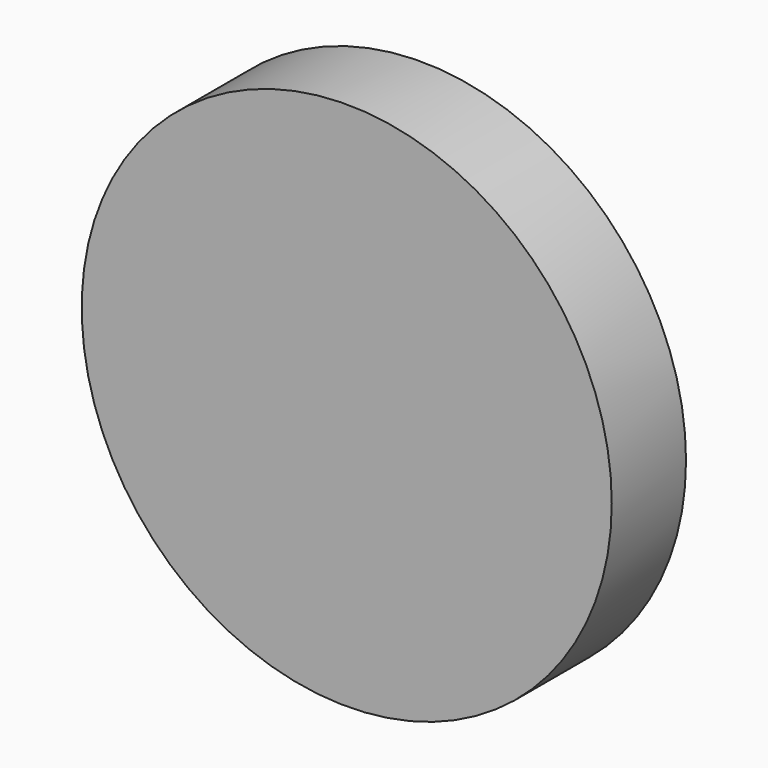
from build123d import *

# Parameters (mm, degrees)
F0_R     = 35.3991487446
F0_R_2   = 26.8605
F1_DEPTH = 12.4


with BuildPart() as f1:
    # F0 (on Front) → F1 (new body)
    with BuildSketch(Plane.XZ):
        with Locations((0.1437033497, 0.4311131488)):
            Circle(F0_R)
        Circle(F0_R_2, mode=Mode.SUBTRACT)
        Circle(F0_R_2)
    extrude(amount=F1_DEPTH)


solid = f1.part
